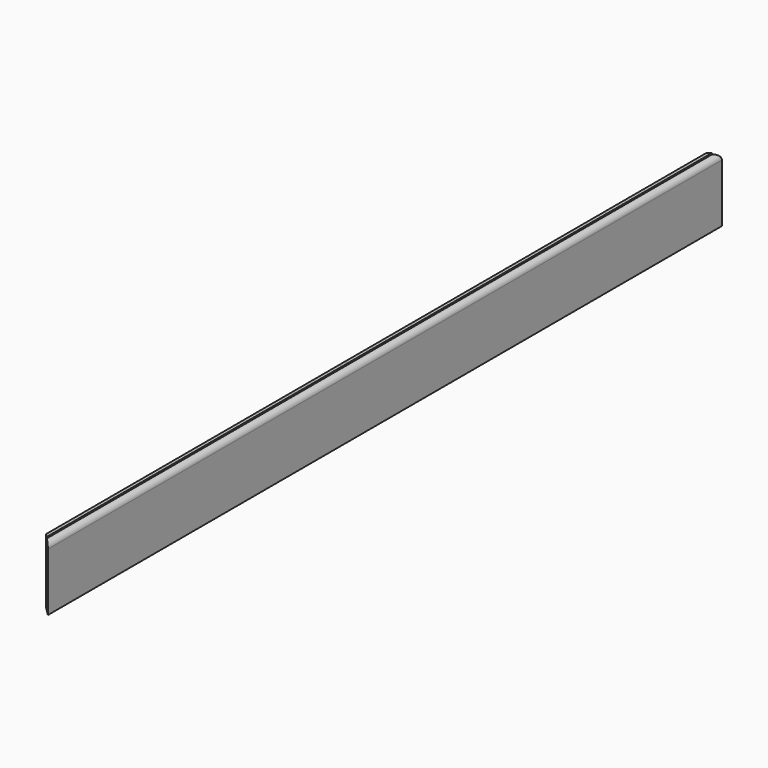
from build123d import *

# Parameters (mm, degrees)
F1_DEPTH = 1981.2
F3_DEPTH = 152.4
F5_DEPTH = 152.4


with BuildPart() as f1:
    # F0 (on Front) → F1 (new body)
    with BuildSketch(Plane.XZ):
        with BuildLine():
            Line((0, 152.4), (0, 0))
            Line((0, 0), (20.955, 0))
            Line((20.955, 0), (20.955, 136.525))
            ThreePointArc((20.955, 136.525), (17.14516, 145.595503), (8.001, 149.225))
            Line((8.001, 149.225), (8.001, 152.4))
            Line((8.001, 152.4), (0, 152.4))
        make_face()
    extrude(amount=-F1_DEPTH)

    # F2 (on face) → F3 (cut)
    with BuildSketch(Plane(origin=(0, 0, 0), x_dir=(1, 0, 0), z_dir=(0, 0, -1))):
        Polygon((0, -20.955), (20.955, 0), (0, 0), align=None)
    extrude(amount=-F3_DEPTH, mode=Mode.SUBTRACT)

    # F4 (on face) → F5 (cut)
    with BuildSketch(Plane(origin=(0, 0, 0), x_dir=(1, 0, 0), z_dir=(0, 0, -1))):
        Polygon((0, -1981.2), (20.955, -1981.2), (0, -1960.245), align=None)
    extrude(amount=-F5_DEPTH, mode=Mode.SUBTRACT)


solid = f1.part
